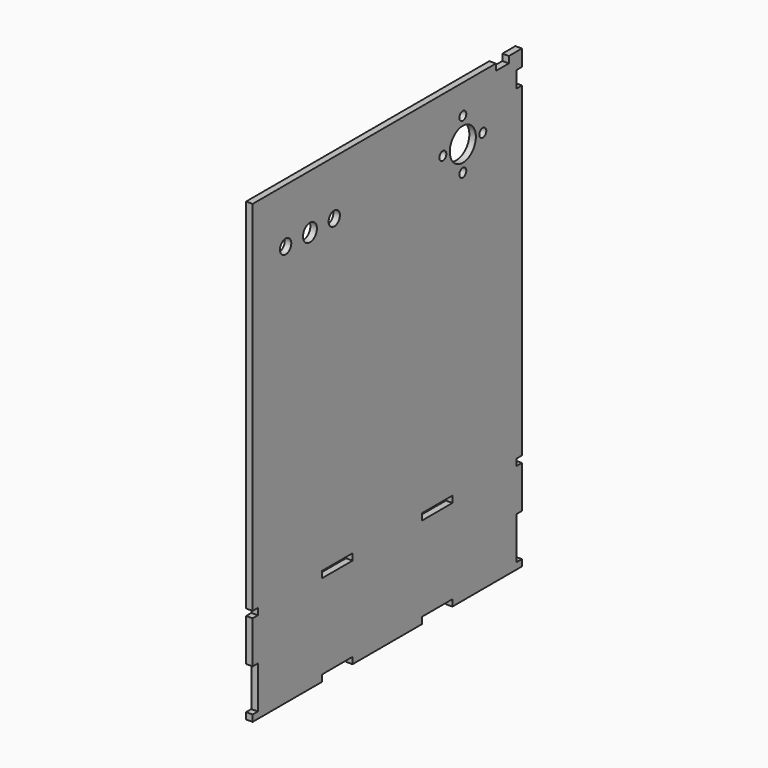
from build123d import *

# Parameters (mm, degrees)
CYLINDER128_R                                = 2
CYLINDER128_DEPTH                            = 10
CYLINDER128_PITCH_ANGLE                      = 90
CYLINDER131_R                                = 2
CYLINDER131_DEPTH                            = 10
CYLINDER131_PITCH_ANGLE                      = 90
CYLINDER130_R                                = 2
CYLINDER130_DEPTH                            = 10
CYLINDER130_PITCH_ANGLE                      = 90
CYLINDER129_R                                = 2
CYLINDER129_DEPTH                            = 10
CYLINDER129_PITCH_ANGLE                      = 90
CYLINDER127_R                                = 7.5
CYLINDER127_DEPTH                            = 10
CYLINDER127_PITCH_ANGLE                      = 90
CYLINDER125_R                                = 3.25
CYLINDER125_DEPTH                            = 10
CYLINDER125_PITCH_ANGLE                      = 90
CYLINDER126_R                                = 3.25
CYLINDER126_DEPTH                            = 10
CYLINDER126_PITCH_ANGLE                      = 90
CYLINDER124_R                                = 4
CYLINDER124_DEPTH                            = 10
CYLINDER124_PITCH_ANGLE                      = 90
RECTANGLE159_W                               = 7.5
RECTANGLE159_H                               = 3
EXTRUDE205_DEPTH                             = 3
RECTANGLE155_W                               = 3
RECTANGLE155_H                               = 7.5
EXTRUDE204_DEPTH                             = 3
RECTANGLE140_W                               = 17.5
RECTANGLE140_H                               = 3
EXTRUDE181_DEPTH                             = 3
RECTANGLE142_W                               = 17.5
RECTANGLE142_H                               = 3
EXTRUDE183_DEPTH                             = 3
RECTANGLE141_W                               = 17.5
RECTANGLE141_H                               = 3
EXTRUDE182_DEPTH                             = 3
RECTANGLE139_W                               = 17.5
RECTANGLE139_H                               = 3
EXTRUDE180_DEPTH                             = 3
RECTANGLE129_AS_DRAWN_W                      = 25
RECTANGLE129_AS_DRAWN_H                      = 3
EXTRUDE172_DEPTH                             = 3
EXTRUDE172_ONTO_RECTANGLE129_ROLL_ANGLE      = -90
EXTRUDE172_ONTO_RECTANGLE129_PLACEMENT_ANGLE = 180
RECTANGLE132_AS_DRAWN_W                      = 3
RECTANGLE132_AS_DRAWN_H                      = 19.5
EXTRUDE169_DEPTH                             = 3
EXTRUDE169_ONTO_RECTANGLE132_ROLL_ANGLE      = -90
EXTRUDE169_ONTO_RECTANGLE132_PLACEMENT_ANGLE = 180
BOX012_W                                     = 3
BOX012_H                                     = 155
BOX012_DEPTH                                 = 210


with BuildPart() as cylinder159:
    # Cylinder128 → Cylinder128 (new body)
    with BuildSketch(Plane.XY):
        Circle(CYLINDER128_R)
    extrude(amount=CYLINDER128_DEPTH)


with BuildPart() as cylinder159_1:
    # Cylinder128 pitch: moved
    add(cylinder159.part.rotate(Axis((0, 0, 0), (0, 1, 0)), CYLINDER128_PITCH_ANGLE))


with BuildPart() as cylinder159_2:
    # Cylinder128 placement: moved
    add(cylinder159_1.part.moved(Location((-173, 44, 81.5))))


with BuildPart() as cylinder162:
    # Cylinder131 → Cylinder131 (new body)
    with BuildSketch(Plane.XY):
        Circle(CYLINDER131_R)
    extrude(amount=CYLINDER131_DEPTH)


with BuildPart() as cylinder162_1:
    # Cylinder131 pitch: moved
    add(cylinder162.part.rotate(Axis((0, 0, 0), (0, 1, 0)), CYLINDER131_PITCH_ANGLE))


with BuildPart() as cylinder162_2:
    # Cylinder131 placement: moved
    add(cylinder162_1.part.moved(Location((-173, 32.5, 70))))


with BuildPart() as cylinder161:
    # Cylinder130 → Cylinder130 (new body)
    with BuildSketch(Plane.XY):
        Circle(CYLINDER130_R)
    extrude(amount=CYLINDER130_DEPTH)


with BuildPart() as cylinder161_1:
    # Cylinder130 pitch: moved
    add(cylinder161.part.rotate(Axis((0, 0, 0), (0, 1, 0)), CYLINDER130_PITCH_ANGLE))


with BuildPart() as cylinder161_2:
    # Cylinder130 placement: moved
    add(cylinder161_1.part.moved(Location((-173, 55.5, 70))))


with BuildPart() as cylinder160:
    # Cylinder129 → Cylinder129 (new body)
    with BuildSketch(Plane.XY):
        Circle(CYLINDER129_R)
    extrude(amount=CYLINDER129_DEPTH)


with BuildPart() as cylinder160_1:
    # Cylinder129 pitch: moved
    add(cylinder160.part.rotate(Axis((0, 0, 0), (0, 1, 0)), CYLINDER129_PITCH_ANGLE))


with BuildPart() as cylinder160_2:
    # Cylinder129 placement: moved
    add(cylinder160_1.part.moved(Location((-173, 44, 58.5))))


with BuildPart() as fusion064062:
    # Cylinder127 → Cylinder127 (new body)
    with BuildSketch(Plane.XY):
        Circle(CYLINDER127_R)
    extrude(amount=CYLINDER127_DEPTH)


with BuildPart() as fusion064062_1:
    # Cylinder127 pitch: moved
    add(fusion064062.part.rotate(Axis((0, 0, 0), (0, 1, 0)), CYLINDER127_PITCH_ANGLE))


with BuildPart() as fusion064062_2:
    # Cylinder127 placement: moved
    add(fusion064062_1.part.moved(Location((-175, 44, 70))))

    # Fusion064062: union Cylinder159, Cylinder162, Cylinder161, Cylinder160
    add(cylinder159_2.part)
    add(cylinder162_2.part)
    add(cylinder161_2.part)
    add(cylinder160_2.part)


with BuildPart() as cylinder156:
    # Cylinder125 → Cylinder125 (new body)
    with BuildSketch(Plane.XY):
        Circle(CYLINDER125_R)
    extrude(amount=CYLINDER125_DEPTH)


with BuildPart() as cylinder156_1:
    # Cylinder125 pitch: moved
    add(cylinder156.part.rotate(Axis((0, 0, 0), (0, 1, 0)), CYLINDER125_PITCH_ANGLE))


with BuildPart() as cylinder156_2:
    # Cylinder125 placement: moved
    add(cylinder156_1.part.moved(Location((-172, -30, 70))))


with BuildPart() as cylinder157:
    # Cylinder126 → Cylinder126 (new body)
    with BuildSketch(Plane.XY):
        Circle(CYLINDER126_R)
    extrude(amount=CYLINDER126_DEPTH)


with BuildPart() as cylinder157_1:
    # Cylinder126 pitch: moved
    add(cylinder157.part.rotate(Axis((0, 0, 0), (0, 1, 0)), CYLINDER126_PITCH_ANGLE))


with BuildPart() as cylinder157_2:
    # Cylinder126 placement: moved
    add(cylinder157_1.part.moved(Location((-172, -58, 70))))


with BuildPart() as fusion064063:
    # Cylinder124 → Cylinder124 (new body)
    with BuildSketch(Plane.XY):
        Circle(CYLINDER124_R)
    extrude(amount=CYLINDER124_DEPTH)


with BuildPart() as fusion064063_1:
    # Cylinder124 pitch: moved
    add(fusion064063.part.rotate(Axis((0, 0, 0), (0, 1, 0)), CYLINDER124_PITCH_ANGLE))


with BuildPart() as fusion064063_2:
    # Cylinder124 placement: moved
    add(fusion064063_1.part.moved(Location((-173, -44, 70))))

    # Fusion064060: union Cylinder156, Cylinder157
    add(cylinder156_2.part)
    add(cylinder157_2.part)

    # Fusion064063: union Fusion064062
    add(fusion064062_2.part)


with BuildPart() as extrude205:
    # Rectangle159 → Extrude205 (new body)
    with BuildSketch(Plane(origin=(-169, 70.5, 95), x_dir=(0, -1, 0), z_dir=(-1, 0, 0))):
        with Locations((3.75, -1.5)):
            Rectangle(RECTANGLE159_W, RECTANGLE159_H)
    extrude(amount=-EXTRUDE205_DEPTH)


with BuildPart() as fusion064057:
    # Rectangle155 → Extrude204 (new body)
    with BuildSketch(Plane(origin=(-169, 75, 80), x_dir=(0, -1, 0), z_dir=(-1, 0, 0))):
        with Locations((-1.5, 3.75)):
            Rectangle(RECTANGLE155_W, RECTANGLE155_H)
    extrude(amount=-EXTRUDE204_DEPTH)

    # Fusion064057: union Extrude205
    add(extrude205.part)


with BuildPart() as extrude181:
    # Rectangle140 → Extrude181 (new body)
    with BuildSketch(Plane(origin=(114, 20.5, -70), x_dir=(0, 1, 0), z_dir=(1, 0, 0))):
        with Locations((8.75, -1.5)):
            Rectangle(RECTANGLE140_W, RECTANGLE140_H)
    extrude(amount=-EXTRUDE181_DEPTH)


with BuildPart() as extrude183:
    # Rectangle142 → Extrude183 (new body)
    with BuildSketch(Plane(origin=(114, -37, -112), x_dir=(0, 1, 0), z_dir=(1, 0, 0))):
        with Locations((8.75, -1.5)):
            Rectangle(RECTANGLE142_W, RECTANGLE142_H)
    extrude(amount=-EXTRUDE183_DEPTH)


with BuildPart() as extrude182:
    # Rectangle141 → Extrude182 (new body)
    with BuildSketch(Plane(origin=(114, 20.5, -112), x_dir=(0, 1, 0), z_dir=(1, 0, 0))):
        with Locations((8.75, -1.5)):
            Rectangle(RECTANGLE141_W, RECTANGLE141_H)
    extrude(amount=-EXTRUDE182_DEPTH)


with BuildPart() as fusion064045:
    # Rectangle139 → Extrude180 (new body)
    with BuildSketch(Plane(origin=(114, -37, -70), x_dir=(0, 1, 0), z_dir=(1, 0, 0))):
        with Locations((8.75, -1.5)):
            Rectangle(RECTANGLE139_W, RECTANGLE139_H)
    extrude(amount=-EXTRUDE180_DEPTH)

    # Fusion064045: union Extrude181, Extrude183, Extrude182
    add(extrude181.part)
    add(extrude183.part)
    add(extrude182.part)


with BuildPart() as fusion064045_1:
    # Fusion064045 placement: moved
    add(fusion064045.part.moved(Location((-280, 0, 0))))


with BuildPart() as extrude172:
    # Rectangle129 as drawn → Extrude172 (new)
    with BuildSketch(Plane.XY):
        with Locations((12.5, 1.5)):
            Rectangle(RECTANGLE129_AS_DRAWN_W, RECTANGLE129_AS_DRAWN_H)
    extrude(amount=-EXTRUDE172_DEPTH)


with BuildPart() as extrude172_1:
    # Extrude172 onto Rectangle129 roll: moved
    add(extrude172.part.rotate(Axis((0, 0, 0), (1, 0, 0)), EXTRUDE172_ONTO_RECTANGLE129_ROLL_ANGLE))


with BuildPart() as extrude172_2:
    # Extrude172 onto Rectangle129 placement: moved
    add(extrude172_1.part.moved(Location((64, -77, -70))).rotate(Axis((64, -77, -70), (0, 0, 1)), EXTRUDE172_ONTO_RECTANGLE129_PLACEMENT_ANGLE))


with BuildPart() as extrude172_3:
    # Extrude172 placement: moved
    add(extrude172_2.part.moved(Location((-208, 0, 0))))


with BuildPart() as extrude169:
    # Rectangle132 as drawn → Extrude169 (new)
    with BuildSketch(Plane.XY):
        with Locations((1.5, 9.75)):
            Rectangle(RECTANGLE132_AS_DRAWN_W, RECTANGLE132_AS_DRAWN_H)
    extrude(amount=-EXTRUDE169_DEPTH)


with BuildPart() as extrude169_1:
    # Extrude169 onto Rectangle132 roll: moved
    add(extrude169.part.rotate(Axis((0, 0, 0), (1, 0, 0)), EXTRUDE169_ONTO_RECTANGLE132_ROLL_ANGLE))


with BuildPart() as extrude169_2:
    # Extrude169 onto Rectangle132 placement: moved
    add(extrude169_1.part.moved(Location((114, -77, -92.5))).rotate(Axis((114, -77, -92.5), (0, 0, 1)), EXTRUDE169_ONTO_RECTANGLE132_PLACEMENT_ANGLE))


with BuildPart() as extrude169_3:
    # Extrude169 placement: moved
    add(extrude169_2.part.moved(Location((-280, 0, 0))))


with BuildPart() as fusion064037:
    # Fusion064037 base: copy of Extrude169
    add(extrude169_3.part)

    # Fusion064037: union Extrude172
    add(extrude172_3.part)


with BuildPart() as fusion064037_1:
    # Fusion064037 placement: moved
    add(fusion064037.part.moved(Location((0, 152, 0))))


with BuildPart() as fusion064031:
    # Fusion064031 base: copy of Extrude169
    add(extrude169_3.part)

    # Fusion064031: union Extrude172
    add(extrude172_3.part)


with BuildPart() as cut035053:
    # Box012 → Box012 (new body)
    with BuildSketch(Plane(origin=(-169, -77, -115), x_dir=(1, 0, 0), z_dir=(0, 0, 1))):
        with Locations((1.5, 77.5)):
            Rectangle(BOX012_W, BOX012_H)
    extrude(amount=BOX012_DEPTH)

    # Cut035021: cut Fusion064031
    add(fusion064031.part, mode=Mode.SUBTRACT)

    # Cut035024: cut Fusion064037
    add(fusion064037_1.part, mode=Mode.SUBTRACT)

    # Cut035032: cut Fusion064045
    add(fusion064045_1.part, mode=Mode.SUBTRACT)

    # Cut035042: cut Fusion064057
    add(fusion064057.part, mode=Mode.SUBTRACT)

    # Cut035053: cut Fusion064063
    add(fusion064063_2.part, mode=Mode.SUBTRACT)


solid = cut035053.part
